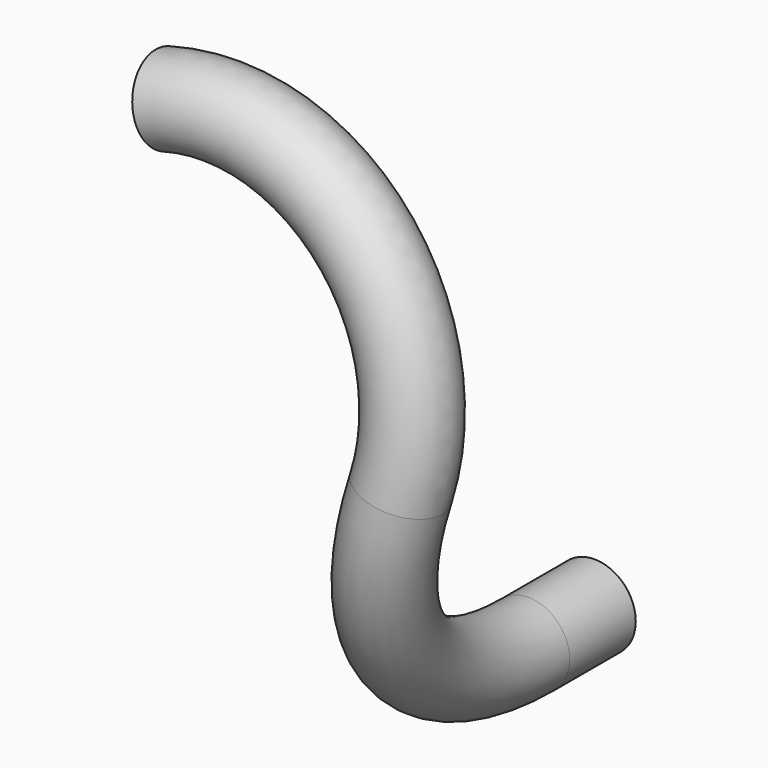
from build123d import *

# Parameters (mm, degrees)
F0_R     = 12.7
F1_DEPTH = 25.4
F2_R     = 12.7
F3_ANGLE = 95
F4_R     = 12.7
F5_ANGLE = 120


with BuildPart() as f1:
    # F0 (on Front) → F1 (new body)
    with BuildSketch(Plane.XZ):
        Circle(F0_R)
    extrude(amount=F1_DEPTH)


with BuildPart() as f3:
    # F2 (on face) → F3 (revolve)
    with BuildSketch(Plane.XZ.offset(25.4)):
        Circle(F2_R)
    revolve(axis=Axis((30.5956843519, -25.4, 70.6899560333), (-0.9659258263, 0, 0.2588190451)), revolution_arc=F3_ANGLE)

    # F4 (on face) → F5 (revolve)
    with BuildSketch(Plane(origin=(19.0014185187, 6.4230540324, 70.9142593277), x_dir=(0.9661891873, -0.0232581031, -0.2567830114), z_dir=(0.2578341605, 0.0871557427, 0.9622501869))):
        with Locations((2.5248463634, -108.1151351864)):
            Circle(F4_R)
    revolve(axis=Axis((-39.9121156198, -86.7617609277, 95.1403012599), (0, -0.9959231583, 0.0902056698)), revolution_arc=F5_ANGLE)


solid = Compound([f1.part, f3.part])
